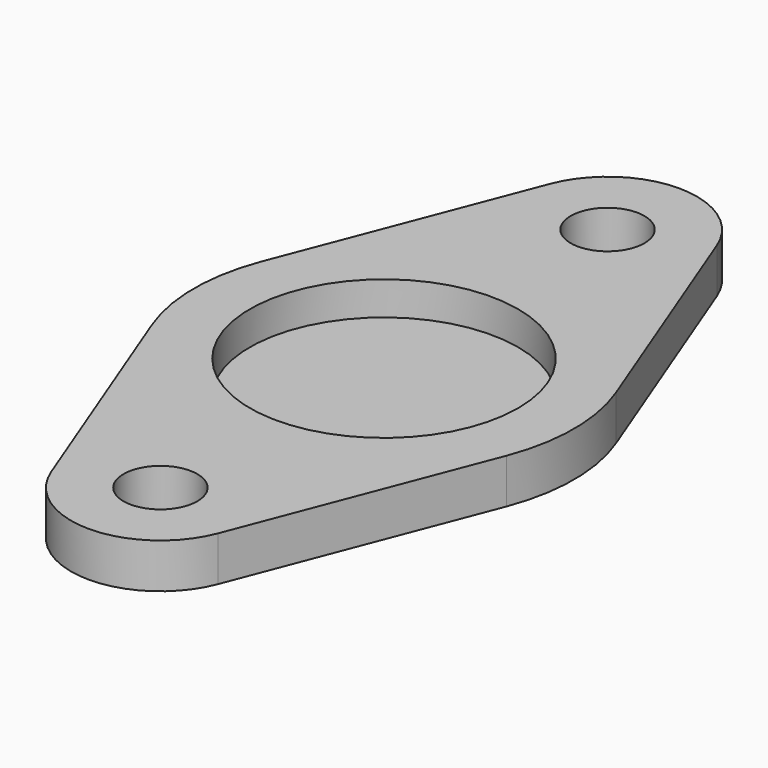
from build123d import *

# Parameters (mm, degrees)
F0_R     = 1.65
F0_R_2   = 6
F1_DEPTH = 2
F2_DEPTH = 0.5


with BuildPart() as f1:
    # F0 (on Top) → F1 (new body)
    with BuildSketch(Plane.XY):
        with BuildLine():
            Line((-3.731809, 13.94), (-7.930095, 3.06))
            ThreePointArc((-7.930095, 3.06), (-8.5, 0), (-7.930095, -3.06))
            Line((-7.930095, -3.06), (-3.731809, -13.94))
            ThreePointArc((-3.731809, -13.94), (0, -16.5), (3.731809, -13.94))
            Line((3.731809, -13.94), (7.930095, -3.06))
            ThreePointArc((7.930095, -3.06), (8.5, 0), (7.930095, 3.06))
            Line((7.930095, 3.06), (3.731809, 13.94))
            ThreePointArc((3.731809, 13.94), (0, 16.5), (-3.731809, 13.94))
        make_face()
        with Locations((0, -12.5)):
            Circle(F0_R, mode=Mode.SUBTRACT)
        Circle(F0_R_2, mode=Mode.SUBTRACT)
        with Locations((0, 12.5)):
            Circle(F0_R, mode=Mode.SUBTRACT)
    extrude(amount=F1_DEPTH)

    # F0 (on Top) → F2 (join)
    with BuildSketch(Plane.XY):
        Circle(F0_R_2)
    extrude(amount=F2_DEPTH)


solid = f1.part
